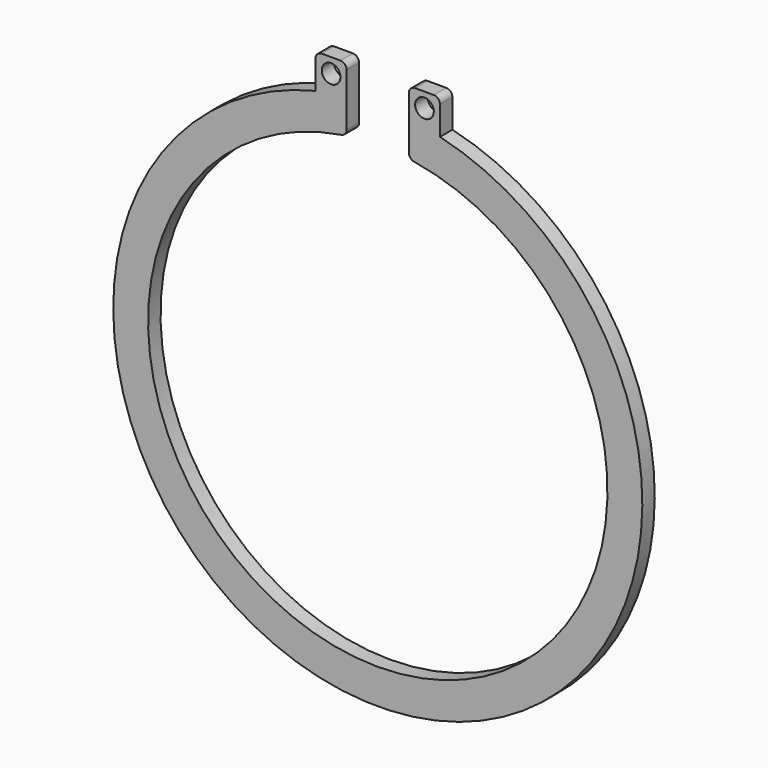
from build123d import *

# Parameters (mm, degrees)
F0_R     = 1.5
F1_DEPTH = 2.5
F2_R     = 1


with BuildPart() as f1:
    # F0 (on Front) → F1 (new body)
    with BuildSketch(Plane.XZ):
        with BuildLine():
            ThreePointArc((5, 36.559677), (-0.000826, -36.9), (-4.998364, 36.559901))
            Line((-4.998364, 36.559901), (-5, 36.9))
            Line((-5, 36.9), (-5, 42.204858))
            Line((-5, 42.204858), (-5, 46.9))
            Line((-5, 46.9), (-7.5, 46.9))
            Line((-7.5, 46.9), (-10, 46.9))
            Line((-10, 46.9), (-10, 41.306779))
            ThreePointArc((-10, 41.306779), (0, -42.5), (10, 41.306779))
            Line((10, 41.306779), (10, 46.9))
            Line((10, 46.9), (7.5, 46.9))
            Line((7.5, 46.9), (5, 46.9))
            Line((5, 46.9), (5, 42.204858))
            Line((5, 42.204858), (5, 36.9))
            Line((5, 36.9), (5, 36.559677))
        make_face()
        with Locations((-7.5, 44.552429)):
            Circle(F0_R, mode=Mode.SUBTRACT)
        with Locations((7.5, 44.552429)):
            Circle(F0_R, mode=Mode.SUBTRACT)
    extrude(amount=F1_DEPTH)

    # F2
    f2_edges = [f1.edges().sort_by_distance(p)[0] for p in [
        (-10, -1.25, 46.9),
        (-5, -1.25, 46.9),
        (5, -1.25, 46.9),
        (10, -1.25, 46.9),
        (5, -1.25, 36.559677),
        (-4.998364, -1.25, 36.559901),
    ]]
    fillet(f2_edges, radius=F2_R)


solid = f1.part
